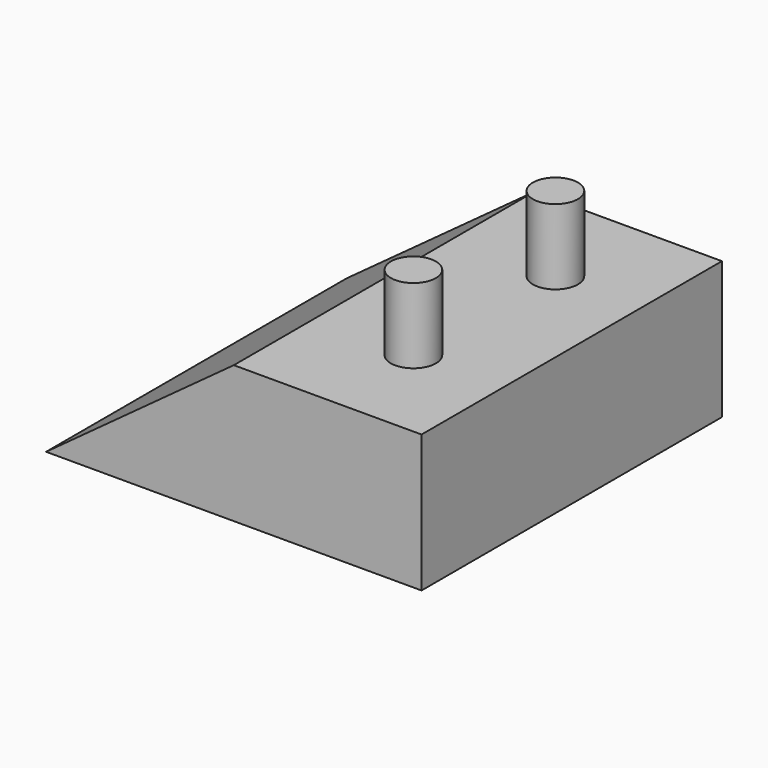
from build123d import *

# Parameters (mm, degrees)
F1_DEPTH = 50
F2_R     = 3
F3_DEPTH = 10


with BuildPart() as f1:
    # F0 (on Front) → F1 (new body)
    with BuildSketch(Plane.XZ):
        Polygon((-25, 2.796772), (-25, -15.488228), (25, -15.488228), (0, 2.796772), align=None)
    extrude(amount=F1_DEPTH)

    # F2 (on face) → F3 (join)
    with BuildSketch(Plane.XY.offset(2.796772)):
        with Locations((-13.586, -13.45)):
            Circle(F2_R)
        with Locations((-13.156, -36.55)):
            Circle(F2_R)
    extrude(amount=F3_DEPTH)


with BuildPart() as f4_1:
    # F4: instance of F1
    add(f1.part.mirror(Plane.YZ))


solid = f4_1.part
